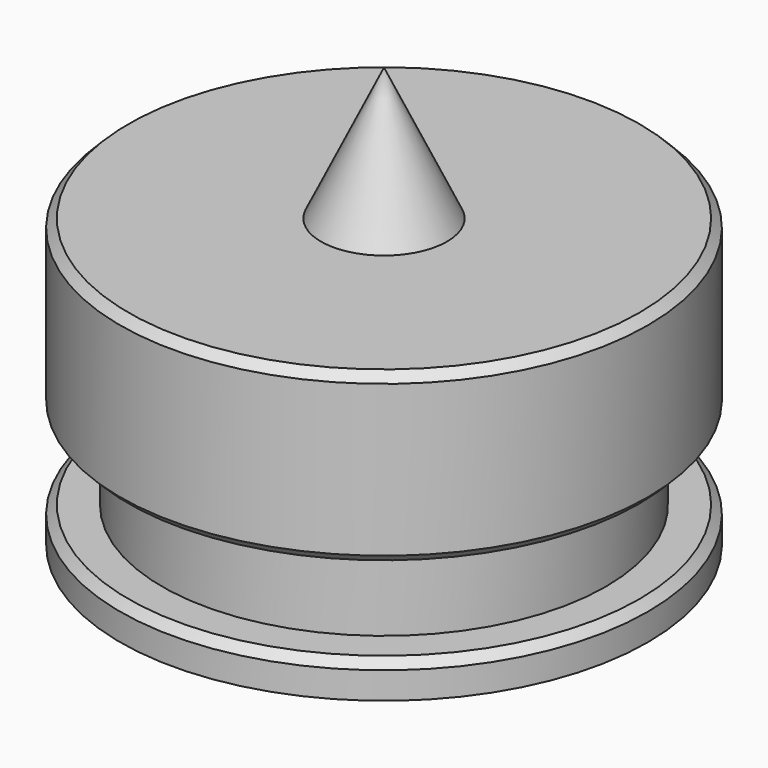
from build123d import *

# Parameters (mm, degrees)
F2_SIZE = 0.254


with BuildPart() as f1:
    # F0 (on Front) → F1 (revolve)
    with BuildSketch(Plane.XZ):
        Polygon((0, 8.6868), (0, 2.0066), (5.5118, 2.0066), (5.5118, 0), (7.9756, 0), (7.9756, 1.0668), (6.7056, 1.0668), (6.7056, 3.6068), (7.9756, 3.6068), (7.9756, 8.6868), (1.905, 8.6868), (0, 12.7), align=None)
    revolve(axis=Axis((0, 0, 7.3533), (0, 0, 1)))

    # F2
    f2_edges = [f1.edges().sort_by_distance(p)[0] for p in [
        (-7.9756, 0, 8.6868),
        (-7.9756, 0, 3.6068),
        (-7.9756, 0, 1.0668),
    ]]
    chamfer(f2_edges, length=F2_SIZE)


solid = f1.part
